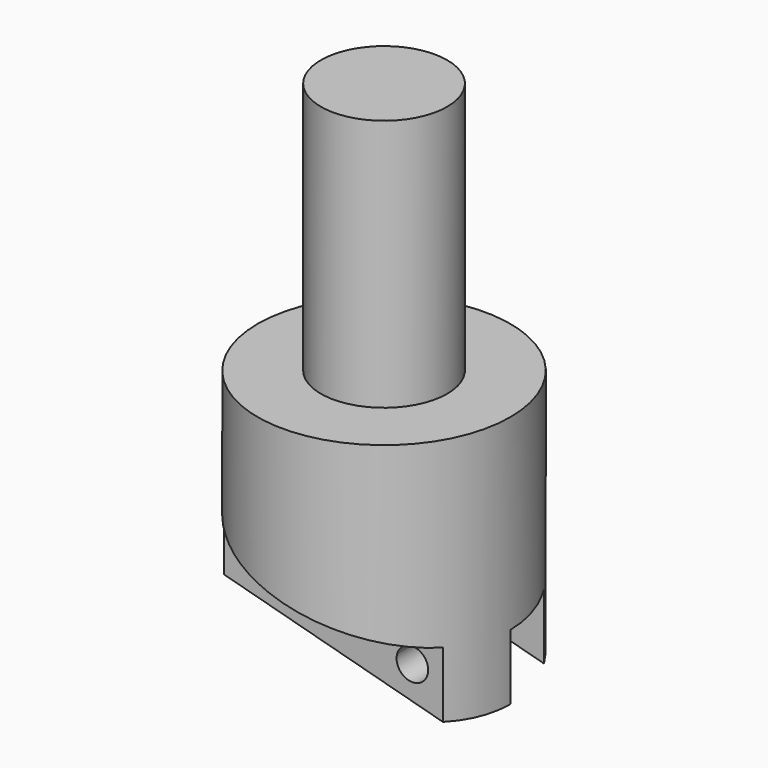
from build123d import *

# Parameters (mm, degrees)
F2_DEPTH = 12.7
F3_DEPTH = 6.35
F4_W     = 1.7614989947
F4_H     = 6.35
F5_DEPTH = 6.35
F7_DEPTH = 6.35


with BuildPart() as f1:
    # F0 (on Front) → F1 (revolve)
    with BuildSketch(Plane.XZ):
        Polygon((12.7, 9.4802887884), (6.35, 9.4802887884), (6.35, 34.8802887884), (0, 34.8802887884), (0, -5.9427527222), (12.7, -9.345707466), align=None)
        Polygon((0, -15.9197112116), (12.7, -15.9197112116), (0, -12.5167564678), align=None)
        Polygon((12.7, -15.9197112116), (12.7, -9.345707466), (0, -5.9427527222), (0, -12.5167564678), align=None)
    revolve(axis=Axis((0, 0, 9.4802887884), (0, 0, 1)))

    # F0 (on Front) → F2 (cut, symmetric)
    with BuildSketch(Plane.XZ):
        Polygon((-12.7, -15.9197112116), (0, -15.9197112116), (0, -12.5167564678), (-12.7, -9.1138017239), align=None)
        Polygon((0, -15.9197112116), (12.7, -15.9197112116), (0, -12.5167564678), align=None)
    extrude(amount=F2_DEPTH, both=True, mode=Mode.SUBTRACT)

    # F0 (on Front) → F3 (cut)
    with BuildSketch(Plane.XZ):
        Polygon((0, -12.5167564678), (0, -5.9427527222), (-11.0564990636, -2.980172727), (-12.7, -9.1138017239), align=None)
        Polygon((12.7, -15.9197112116), (12.7, -9.345707466), (0, -5.9427527222), (0, -12.5167564678), align=None)
        Polygon((-12.7, -9.1138017239), (-11.0564990636, -2.980172727), (-12.7, -2.5397979783), align=None)
    extrude(amount=-F3_DEPTH, mode=Mode.SUBTRACT)

    # F4 (on face) → F5 (cut)
    with BuildSketch(Plane(origin=(-3.1291891169, 0, -11.6782927709), x_dir=(0.9659258263, 0, -0.2588190451), z_dir=(-0.2588190451, 0, -0.9659258263))):
        with BuildLine():
            Line((-8.1469335398, 6.35), (3.5889137071, 6.35))
            Line((3.5889137071, 6.35), (14.6260834533, 6.35))
            add(Edge.make_bspline(
                [(3.2395749568, 12.7), (10.8305806211, 12.7), (14.6260834533, 6.35)],
                knots=[1.5707963268, 1.5707963268, 1.5707963268, 2.6058232788, 2.6058232788, 2.6058232788], degree=2, weights=[1, 0.8070072037, 0.8683475024]))
            add(Edge.make_bspline(
                [(-8.1469335398, 6.35), (-4.3514307076, 12.7), (3.2395749568, 12.7)],
                knots=[0.5357693748, 0.5357693748, 0.5357693748, 1.5707963268, 1.5707963268, 1.5707963268], degree=2, weights=[0.8683475024, 0.8070072037, 1]))
        make_face()
        with BuildLine():
            Line((-8.1469335398, 12.7), (-8.1469335398, 6.35))
            add(Edge.make_bspline(
                [(-8.1469335398, 6.35), (-4.3514307076, 12.7), (3.2395749568, 12.7)],
                knots=[0.5357693748, 0.5357693748, 0.5357693748, 1.5707963268, 1.5707963268, 1.5707963268], degree=2, weights=[0.8683475024, 0.8070072037, 1]))
            Line((3.2395749568, 12.7), (-8.1469335398, 12.7))
        make_face()
        with Locations((-9.0276830371, 9.525)):
            Rectangle(F4_W, F4_H)
    extrude(amount=-F5_DEPTH, mode=Mode.SUBTRACT)

    # F6 (on face) → F7 (cut)
    with BuildSketch(Plane.XZ.offset(6.35)):
        with BuildLine():
            Line((-4.3968861542, -8.0516125007), (-7.4637006527, -7.2298620325))
            ThreePointArc((-7.4637006527, -7.2298620325), (-6.3411686376, -9.1741445159), (-4.3968861542, -8.0516125007))
        make_face()
        with BuildLine():
            ThreePointArc((-4.3427934035, -7.6407372666), (-5.7230830733, -6.0668185492), (-7.4637006527, -7.2298620325))
            Line((-7.4637006527, -7.2298620325), (-4.3968861542, -8.0516125007))
            ThreePointArc((-4.3968861542, -8.0516125007), (-4.356374686, -7.8479475968), (-4.3427934035, -7.6407372666))
        make_face()
        with BuildLine():
            Line((6.3983008804, -10.9441741488), (9.4651153788, -11.765924617))
            ThreePointArc((9.4651153788, -11.765924617), (9.505626847, -11.562259713), (9.5192081296, -11.3550493829))
            ThreePointArc((9.5192081296, -11.3550493829), (8.1389184597, -9.7811306655), (6.3983008804, -10.9441741488))
        make_face()
        with BuildLine():
            ThreePointArc((6.3983008804, -10.9441741488), (7.5208328955, -12.8884566321), (9.4651153788, -11.765924617))
            Line((9.4651153788, -11.765924617), (6.3983008804, -10.9441741488))
        make_face()
    extrude(amount=-F7_DEPTH, mode=Mode.SUBTRACT)


solid = f1.part
